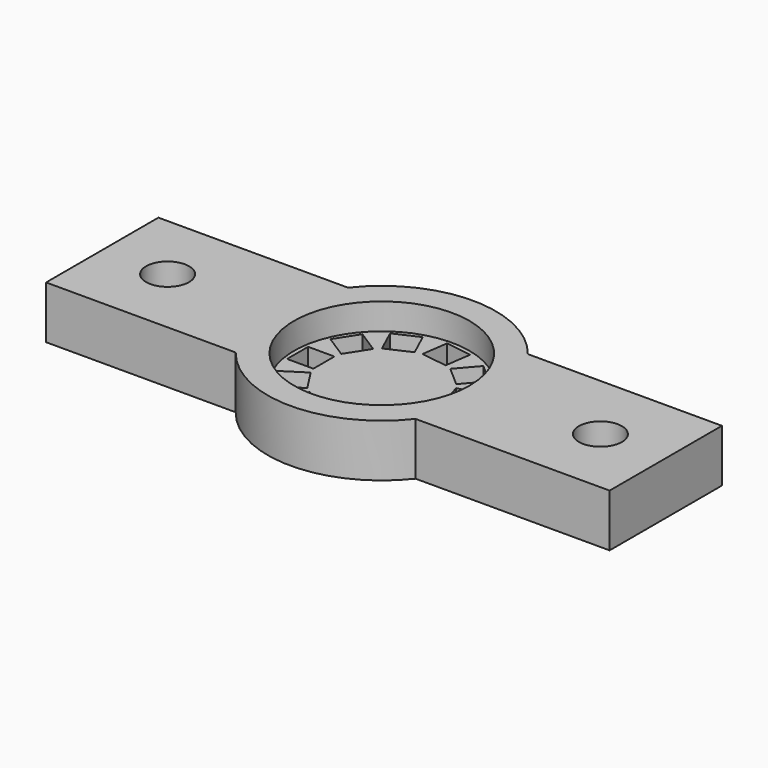
from build123d import *

# Parameters (mm, degrees)
F0_R     = 2.45
F1_DEPTH = 6
F2_R     = 10
F3_DEPTH = 3
F4_W     = 3
F4_H     = 3
F5_DEPTH = 3.001


with BuildPart() as f1:
    # F0 (on Top) → F1 (new body)
    with BuildSketch(Plane.XY):
        with BuildLine():
            ThreePointArc((10.246951, -8), (12.292485, -4.230227), (13, 0))
            ThreePointArc((13, 0), (12.292485, 4.230227), (10.246951, 8))
            ThreePointArc((10.246951, 8), (0, 13), (-10.246951, 8))
            ThreePointArc((-10.246951, 8), (-13, 0), (-10.246951, -8))
            ThreePointArc((-10.246951, -8), (0, -13), (10.246951, -8))
        make_face()
        with BuildLine():
            ThreePointArc((10.246951, 8), (12.292485, 4.230227), (13, 0))
            ThreePointArc((13, 0), (12.292485, -4.230227), (10.246951, -8))
            Line((10.246951, -8), (32.370236, -8))
            Line((32.370236, -8), (32.370236, 8))
            Line((32.370236, 8), (10.246951, 8))
        make_face()
        with Locations((24.920236, 0)):
            Circle(F0_R, mode=Mode.SUBTRACT)
        with BuildLine():
            ThreePointArc((-10.246951, -8), (-13, 0), (-10.246951, 8))
            Line((-10.246951, 8), (-31.858318, 8))
            Line((-31.858318, 8), (-31.858318, -8))
            Line((-31.858318, -8), (-10.246951, -8))
        make_face()
        with Locations((-24.408318, 0)):
            Circle(F0_R, mode=Mode.SUBTRACT)
    extrude(amount=F1_DEPTH)

    # F2 (on face) → F3 (cut)
    with BuildSketch(Plane.XY.offset(6)):
        Circle(F2_R)
    extrude(amount=-F3_DEPTH, mode=Mode.SUBTRACT)

    # F4 (on face) → F5 (cut, through all)
    with BuildSketch(Plane.XY.offset(3)):
        with Locations((-7.998256, -0.119366)):
            Rectangle(F4_W, F4_H)
        Polygon((-4.593181, -4.874256), (-6.215104, -2.350495), (-8.738864, -3.972418), (-7.116942, -6.496178), align=None)
        Polygon((-1.230803, -6.582482), (-3.959699, -5.336237), (-5.205944, -8.065133), (-2.477048, -9.311378), align=None)
        Polygon((2.521346, -6.201695), (-0.448119, -6.62864), (-0.021174, -9.598104), (2.94829, -9.17116), align=None)
        Polygon((5.471985, -3.852792), (3.204737, -5.817374), (5.169319, -8.084623), (7.436567, -6.120041), align=None)
        Polygon((6.684308, -0.281532), (5.839111, -3.160011), (8.717589, -4.005209), (9.562787, -1.12673), align=None)
        Polygon((5.77341, 3.378234), (6.618608, 0.499755), (9.497087, 1.344952), (8.651889, 4.223431), align=None)
        Polygon((3.028496, 5.964556), (5.295744, 3.999974), (7.260327, 6.267223), (4.993078, 8.231805), align=None)
        Polygon((-0.678945, 6.656296), (2.290519, 6.229352), (2.717464, 9.198816), (-0.252001, 9.625761), align=None)
        Polygon((-4.171826, 5.233831), (-1.44293, 6.480076), (-2.689175, 9.208972), (-5.418071, 7.962727), align=None)
        Polygon((-6.341181, 2.148784), (-4.719259, 4.672544), (-7.243019, 6.294467), (-8.864942, 3.770706), align=None)
    extrude(amount=-F5_DEPTH, mode=Mode.SUBTRACT)


solid = f1.part
